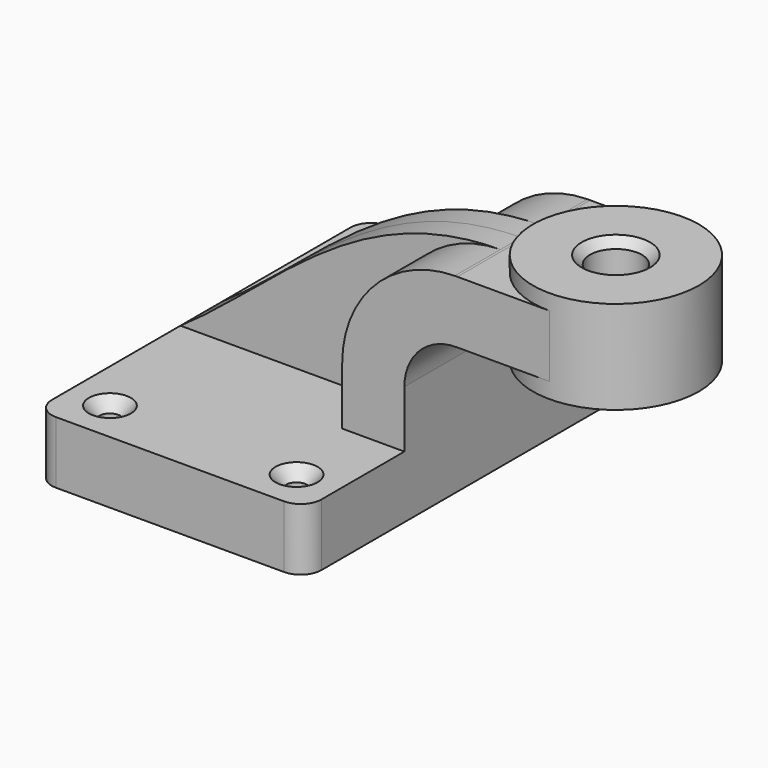
from build123d import *

# Parameters (mm, degrees)
F1_DEPTH        = 63.5
F0_W            = 25.4
F0_H            = 19.05
F2_DEPTH        = 25.4
F3_DEPTH        = 7.9375
F5_R            = 6.35
F6_R            = 7.9375
F7_DEPTH        = 38.1
F8_SIZE         = 2.54
F10_D           = 6.35
F10_CSINK_D     = 12.8778
F10_CSINK_ANGLE = 82


with BuildPart() as f1:
    # F0 (on Front) → F1 (new body, symmetric)
    with BuildSketch(Plane.XZ):
        Polygon((-41.275, -9.525), (41.275, -9.525), (41.275, 9.525), (22.225, 9.525), (-41.275, 9.525), align=None)
    extrude(amount=F1_DEPTH, both=True)

    # F0 (on Front) → F2 (join, symmetric)
    with BuildSketch(Plane.XZ):
        with Locations((73.025, 52.4002)):
            Rectangle(F0_W, F0_H)
        with BuildLine():
            Line((22.225, 9.525), (41.275, 9.525))
            Line((41.275, 9.525), (41.275, 27.0021876939))
            ThreePointArc((41.275, 27.0021876939), (46.0138493613, 38.3159745909), (57.401207742, 42.8752))
            Line((57.401207742, 42.8752), (60.325, 42.8752))
            Line((60.325, 42.8752), (60.325, 61.9252))
            Line((60.325, 61.9252), (57.5226076573, 61.9252))
            add(Edge.make_bspline(
                [(56.7269681039, 61.9246255958), (56.9914748423, 61.9259537401), (57.2566863526, 61.9261483453), (57.5226076573, 61.9252)],
                knots=[111.1760466233, 111.1760466233, 111.1760466233, 111.1760466233, 111.8335738446, 111.8335738446, 111.8335738446, 111.8335738446], degree=3))
            ThreePointArc((56.7269681039, 61.9246255958), (32.3051814862, 51.5478719991), (22.225, 27.0021876939))
            Line((22.225, 27.0021876939), (22.225, 9.525))
        make_face()
    extrude(amount=F2_DEPTH, both=True)

    # F0 (on Front) → F3 (join, symmetric)
    with BuildSketch(Plane.XZ):
        with BuildLine():
            add(Edge.make_bspline(
                [(-41.275, 9.525), (-12.5711712421, 29.0690447456), (12.0036281031, 61.7000602517), (56.7269681039, 61.9246255958)],
                knots=[0, 0, 0, 0, 111.1760466233, 111.1760466233, 111.1760466233, 111.1760466233], degree=3))
            Line((-41.275, 9.525), (22.225, 9.525))
            Line((22.225, 9.525), (22.225, 27.0021876939))
            ThreePointArc((22.225, 27.0021876939), (32.3051814862, 51.5478719991), (56.7269681039, 61.9246255958))
        make_face()
    extrude(amount=F3_DEPTH, both=True)

    # F0 (on Front) → F4 (revolve)
    with BuildSketch(Plane.XZ):
        Polygon((85.725, 61.9252), (85.725, 42.8752), (85.725, 38.1), (111.125, 38.1), (111.125, 66.675), (85.725, 66.675), align=None)
    revolve(axis=Axis((85.725, 0, 52.3875), (0, 0, -1)))

    # F5
    f5_edges = [f1.edges().sort_by_distance(p)[0] for p in [
        (41.275, -63.5, 0),
        (-41.275, -63.5, 0),
        (-41.275, 63.5, 0),
        (41.275, 63.5, 0),
    ]]
    fillet(f5_edges, radius=F5_R)

    # F6 (on face) → F7 (cut, symmetric)
    with BuildSketch(Plane.XY.offset(66.675)):
        with Locations((85.725, 0)):
            Circle(F6_R)
    extrude(amount=F7_DEPTH, both=True, mode=Mode.SUBTRACT)

    # F8
    f8_edges = [f1.edges().sort_by_distance(p)[0] for p in [
        (77.7875, 0, 66.675),
    ]]
    chamfer(f8_edges, length=F8_SIZE)

    # F10 (through all)
    with Locations(Plane.XY.offset(9.525)):
        with Locations((-28.575, 50.8), (28.575, 50.8), (28.575, -50.8), (-28.575, -50.8)):
            CounterSinkHole(F10_D / 2, F10_CSINK_D / 2, counter_sink_angle=F10_CSINK_ANGLE)


solid = f1.part
